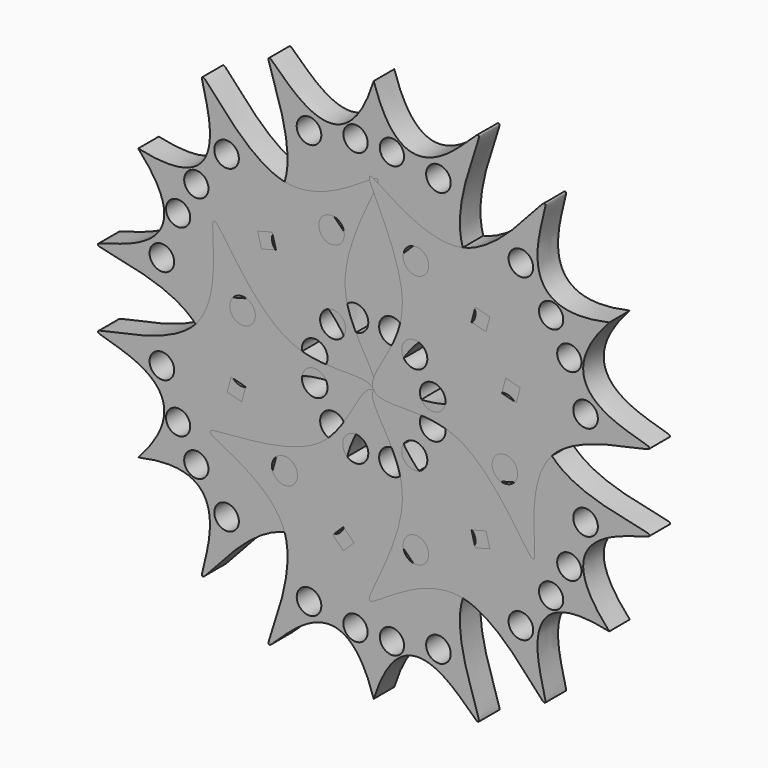
from build123d import *

# Parameters (mm, degrees)
F0_R     = 2.9861181658
F0_R_2   = 2.8719578819
F0_R_3   = 2.8328802437
F1_DEPTH = 6
F3_COUNT = 6


with BuildPart() as f1:
    # F0 (on Front) → F1 (new body)
    with BuildSketch(Plane.XZ):
        with BuildLine():
            add(Edge.make_bspline(
                [(0, 63.5037496686), (7.4499391652, 39.6639553122), (35.5999690248, 77.5609302866), (8.927876858, 30.6303811052), (53.5856872066, 18.1651755005), (7.5214085375, 22.1968352751), (3.6414521578, -0.1219854984), (0, 0)],
                knots=[0, 0, 0, 0, 0.2034537455, 0.4069074967, 0.6052381689, 0.8142736714, 1, 1, 1, 1], degree=3))
            add(Edge.make_bspline(
                [(0, 63.5037496686), (-7.4499391652, 39.6639553122), (-35.5999690248, 77.5609302866), (-8.927876858, 30.6303811052), (-53.5856872066, 18.1651755005), (-7.5214085375, 22.1968352751), (-3.6414521578, -0.1219854984), (0, 0)],
                knots=[0, 0, 0, 0, 0.2034537455, 0.4069074967, 0.6052381689, 0.8142736714, 1, 1, 1, 1], degree=3))
        make_face()
        with Locations((-4.2493236251, 13.4561862797)):
            Circle(F0_R, mode=Mode.SUBTRACT)
        with Locations((-20.7744594663, 23.3712699264)):
            Circle(F0_R, mode=Mode.SUBTRACT)
        Polygon((-4.6073310659, 32.9283470637), (-7.0822048001, 30.4534733295), (-9.5570785343, 32.9283470637), (-7.0822048001, 35.4032207978), align=None, mode=Mode.SUBTRACT)
        with Locations((4.2493236251, 13.4561862797)):
            Circle(F0_R, mode=Mode.SUBTRACT)
        with Locations((20.7744594663, 23.3712699264)):
            Circle(F0_R, mode=Mode.SUBTRACT)
        Polygon((7.0822048001, 30.4534733295), (4.6073310659, 32.9283470637), (7.0822048001, 35.4032207978), (9.5570785343, 32.9283470637), align=None, mode=Mode.SUBTRACT)
        with Locations((-15.1086980477, 48.3950525522)):
            Circle(F0_R_2, mode=Mode.SUBTRACT)
        with Locations((-4.2493236251, 50.2836368978)):
            Circle(F0_R_3, mode=Mode.SUBTRACT)
        with Locations((15.1086980477, 48.3950525522)):
            Circle(F0_R_2, mode=Mode.SUBTRACT)
        with Locations((4.2493236251, 50.2836368978)):
            Circle(F0_R_3, mode=Mode.SUBTRACT)
    extrude(amount=F1_DEPTH)


with BuildPart() as f3_1:
    # F3: instance of F1
    add(f1.part.rotate(Axis((0, -31.6500030458, 0), (0, -1, 0)), 1 * 360 / F3_COUNT))


with BuildPart() as f3_2:
    # F3: instance of F1
    add(f1.part.rotate(Axis((0, -31.6500030458, 0), (0, -1, 0)), 2 * 360 / F3_COUNT))


with BuildPart() as f3_3:
    # F3: instance of F1
    add(f1.part.rotate(Axis((0, -31.6500030458, 0), (0, -1, 0)), 3 * 360 / F3_COUNT))


with BuildPart() as f3_4:
    # F3: instance of F1
    add(f1.part.rotate(Axis((0, -31.6500030458, 0), (0, -1, 0)), 4 * 360 / F3_COUNT))


with BuildPart() as f3_5:
    # F3: instance of F1
    add(f1.part.rotate(Axis((0, -31.6500030458, 0), (0, -1, 0)), 5 * 360 / F3_COUNT))


solid = Compound([f1.part, f3_1.part, f3_2.part, f3_3.part, f3_4.part, f3_5.part])
